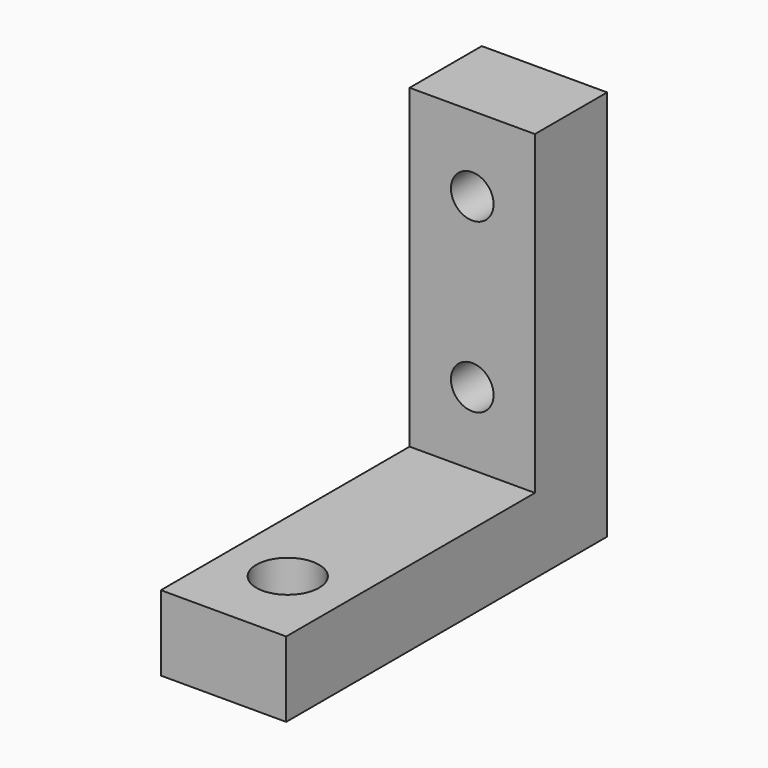
from build123d import *

# Parameters (mm, degrees)
F0_W     = 25
F0_H     = 15
F0_H_2   = 63
F0_R     = 4.25
F1_DEPTH = 18
F2_DEPTH = 62
F3_R     = 6.25
F4_DEPTH = 25.4


with BuildPart() as f1:
    # F0 (on Front) → F1 (new body)
    with BuildSketch(Plane.XZ):
        with Locations((0, 7.5)):
            Rectangle(F0_W, F0_H)
        with Locations((0, 46.5)):
            Rectangle(F0_W, F0_H_2)
        with Locations((0, 29.5)):
            Circle(F0_R, mode=Mode.SUBTRACT)
        with Locations((0, 63)):
            Circle(F0_R, mode=Mode.SUBTRACT)
    extrude(amount=-F1_DEPTH)

    # F0 (on Front) → F2 (join)
    with BuildSketch(Plane.XZ):
        with Locations((0, 7.5)):
            Rectangle(F0_W, F0_H)
    extrude(amount=F2_DEPTH)

    # F3 (on face) → F4 (cut)
    with BuildSketch(Plane.XY.offset(15)):
        with Locations((0, -46)):
            Circle(F3_R)
    extrude(amount=-F4_DEPTH, mode=Mode.SUBTRACT)


solid = f1.part
